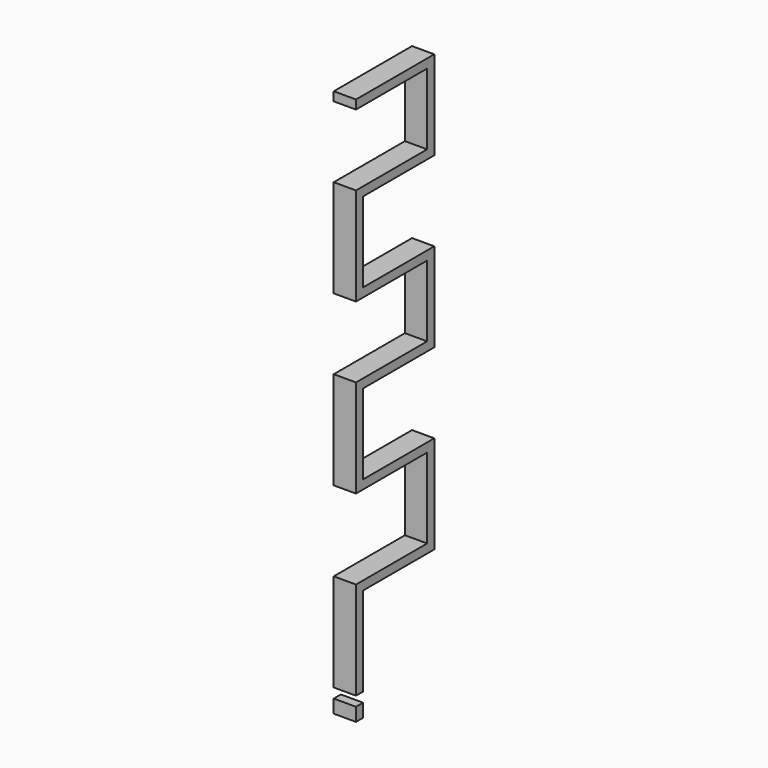
from build123d import *

# Parameters (mm, degrees)
F0_W     = 10
F0_H     = 15
F1_DEPTH = 25


with BuildPart() as f1:
    # F0 (on Right) → F1 (new body)
    with BuildSketch(Plane.YZ):
        Polygon((5.605108, 133.095529), (-94.394892, 133.095529), (-94.394892, 123.095529), (5.605108, 123.095529), (5.605108, 43.095529), (-94.394892, 43.095529), (-94.394892, 33.095529), (-94.394892, -66.904471), (-84.394892, -66.904471), (5.605108, -66.904471), (5.605108, -146.904471), (-94.394892, -146.904471), (-94.394892, -156.904471), (-94.394892, -256.904471), (-84.394892, -256.904471), (5.605108, -256.904471), (5.605108, -346.904471), (-94.394892, -346.904471), (-94.394892, -356.904471), (-94.394892, -456.904471), (-84.394892, -456.904471), (-84.394892, -356.904471), (5.605108, -356.904471), (15.605108, -356.904471), (15.605108, -256.904471), (15.605108, -246.904471), (-84.394892, -246.904471), (-84.394892, -156.904471), (5.605108, -156.904471), (15.605108, -156.904471), (15.605108, -66.904471), (15.605108, -56.904471), (5.605108, -56.904471), (-84.394892, -56.904471), (-84.394892, 33.095529), (5.605108, 33.095529), (15.605108, 33.095529), (15.605108, 133.095529), align=None)
        with Locations((-89.394892, -475.359969)):
            Rectangle(F0_W, F0_H)
    extrude(amount=F1_DEPTH)


solid = f1.part
